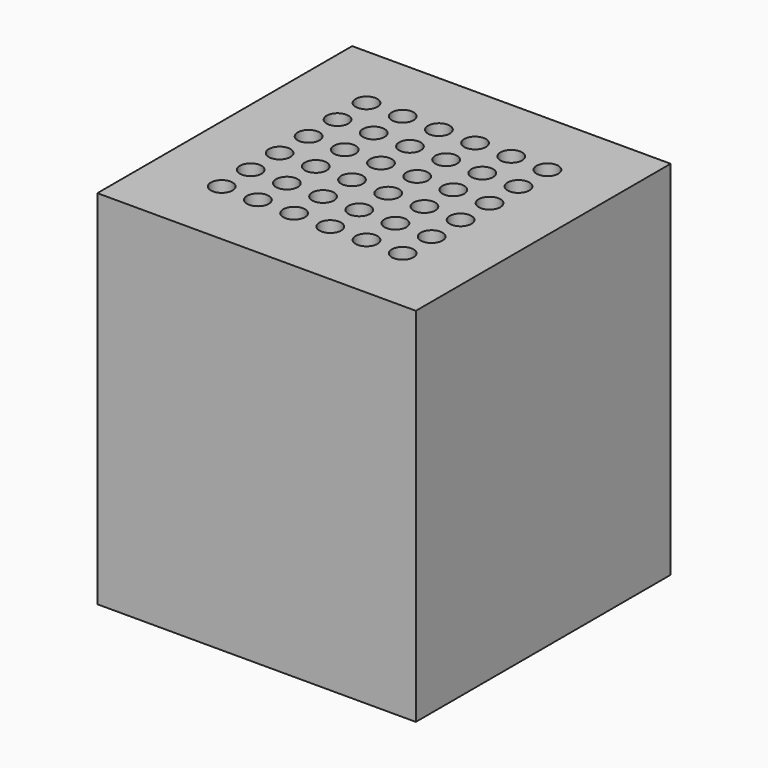
from build123d import *

# Parameters (mm, degrees)
F0_W     = 22
F0_H     = 22
F0_R     = 0.75
F1_DEPTH = 25


with BuildPart() as f1:
    # F0 (on Top) → F1 (new body)
    with BuildSketch(Plane.XY):
        with Locations((0.99929, 1.25)):
            Rectangle(F0_W, F0_H)
        with Locations((-5.25, -4.95)):
            Circle(F0_R, mode=Mode.SUBTRACT)
        with Locations((-2.75, -4.95)):
            Circle(F0_R, mode=Mode.SUBTRACT)
        with Locations((-0.25, -4.95)):
            Circle(F0_R, mode=Mode.SUBTRACT)
        with Locations((-5.25, -2.45)):
            Circle(F0_R, mode=Mode.SUBTRACT)
        with Locations((-5.25, 0.05)):
            Circle(F0_R, mode=Mode.SUBTRACT)
        with Locations((-2.75, -2.45)):
            Circle(F0_R, mode=Mode.SUBTRACT)
        with Locations((-0.25, -2.45)):
            Circle(F0_R, mode=Mode.SUBTRACT)
        with Locations((-2.75, 0.05)):
            Circle(F0_R, mode=Mode.SUBTRACT)
        with Locations((-0.25, 0.05)):
            Circle(F0_R, mode=Mode.SUBTRACT)
        with Locations((2.25, -4.95)):
            Circle(F0_R, mode=Mode.SUBTRACT)
        with Locations((4.75, -4.95)):
            Circle(F0_R, mode=Mode.SUBTRACT)
        with Locations((7.25, -4.95)):
            Circle(F0_R, mode=Mode.SUBTRACT)
        with Locations((2.25, -2.45)):
            Circle(F0_R, mode=Mode.SUBTRACT)
        with Locations((4.75, -2.45)):
            Circle(F0_R, mode=Mode.SUBTRACT)
        with Locations((2.25, 0.05)):
            Circle(F0_R, mode=Mode.SUBTRACT)
        with Locations((4.75, 0.05)):
            Circle(F0_R, mode=Mode.SUBTRACT)
        with Locations((7.25, -2.45)):
            Circle(F0_R, mode=Mode.SUBTRACT)
        with Locations((7.25, 0.05)):
            Circle(F0_R, mode=Mode.SUBTRACT)
        with Locations((-5.25, 2.55)):
            Circle(F0_R, mode=Mode.SUBTRACT)
        with Locations((-5.25, 5.05)):
            Circle(F0_R, mode=Mode.SUBTRACT)
        with Locations((-2.75, 2.55)):
            Circle(F0_R, mode=Mode.SUBTRACT)
        with Locations((-0.25, 2.55)):
            Circle(F0_R, mode=Mode.SUBTRACT)
        with Locations((-2.75, 5.05)):
            Circle(F0_R, mode=Mode.SUBTRACT)
        with Locations((-0.25, 5.05)):
            Circle(F0_R, mode=Mode.SUBTRACT)
        with Locations((-5.25, 7.55)):
            Circle(F0_R, mode=Mode.SUBTRACT)
        with Locations((-2.75, 7.55)):
            Circle(F0_R, mode=Mode.SUBTRACT)
        with Locations((-0.25, 7.55)):
            Circle(F0_R, mode=Mode.SUBTRACT)
        with Locations((2.25, 2.55)):
            Circle(F0_R, mode=Mode.SUBTRACT)
        with Locations((4.75, 2.55)):
            Circle(F0_R, mode=Mode.SUBTRACT)
        with Locations((2.25, 5.05)):
            Circle(F0_R, mode=Mode.SUBTRACT)
        with Locations((4.75, 5.05)):
            Circle(F0_R, mode=Mode.SUBTRACT)
        with Locations((7.25, 2.55)):
            Circle(F0_R, mode=Mode.SUBTRACT)
        with Locations((7.25, 5.05)):
            Circle(F0_R, mode=Mode.SUBTRACT)
        with Locations((2.25, 7.55)):
            Circle(F0_R, mode=Mode.SUBTRACT)
        with Locations((4.75, 7.55)):
            Circle(F0_R, mode=Mode.SUBTRACT)
        with Locations((7.25, 7.55)):
            Circle(F0_R, mode=Mode.SUBTRACT)
    extrude(amount=F1_DEPTH)


solid = f1.part
